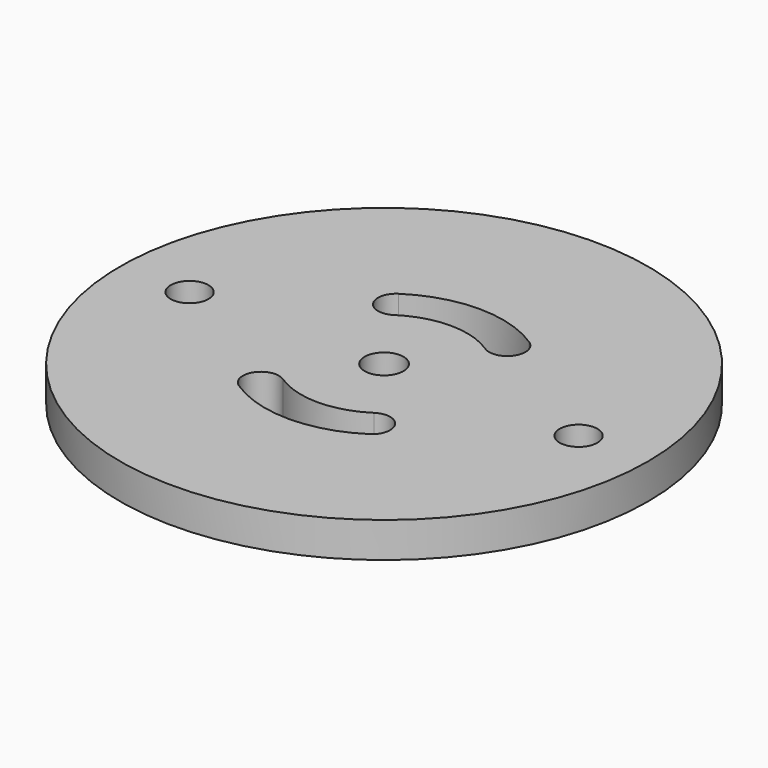
from build123d import *

# Parameters (mm, degrees)
SKETCH001_R   = 47.5
SKETCH001_R_2 = 3.5
PAD_DEPTH     = 6.35
SKETCH_R      = 3.4
HOLE_DEPTH    = 6.351


with BuildPart() as part:
    # Sketch001 → Pad (new body)
    with BuildSketch(Plane.XY):
        Circle(SKETCH001_R)
        Circle(SKETCH001_R_2, mode=Mode.SUBTRACT)
        with BuildLine():
            ThreePointArc((8.214313, 12.491428), (0, 14.950275), (-8.214313, 12.491428))
            ThreePointArc((-11.785687, 17.922384), (-12.715478, 13.421219), (-8.214313, 12.491428))
            ThreePointArc((11.785687, 17.922384), (0, 21.450275), (-11.785687, 17.922384))
            ThreePointArc((8.214313, 12.491428), (12.715478, 13.421219), (11.785687, 17.922384))
        make_face(mode=Mode.SUBTRACT)
        with BuildLine():
            ThreePointArc((-8.214313, -12.491428), (0, -14.950275), (8.214313, -12.491428))
            ThreePointArc((11.785687, -17.922384), (12.715478, -13.421219), (8.214313, -12.491428))
            ThreePointArc((-11.785687, -17.922384), (0, -21.450275), (11.785687, -17.922384))
            ThreePointArc((-8.214313, -12.491428), (-12.715478, -13.421219), (-11.785687, -17.922384))
        make_face(mode=Mode.SUBTRACT)
    extrude(amount=PAD_DEPTH)

    # Sketch → Hole (cut, through all)
    with BuildSketch(Plane.XY):
        with Locations((-35, 0)):
            Circle(SKETCH_R)
        with Locations((35, 0)):
            Circle(SKETCH_R)
    extrude(amount=HOLE_DEPTH, mode=Mode.SUBTRACT)


solid = part.part
